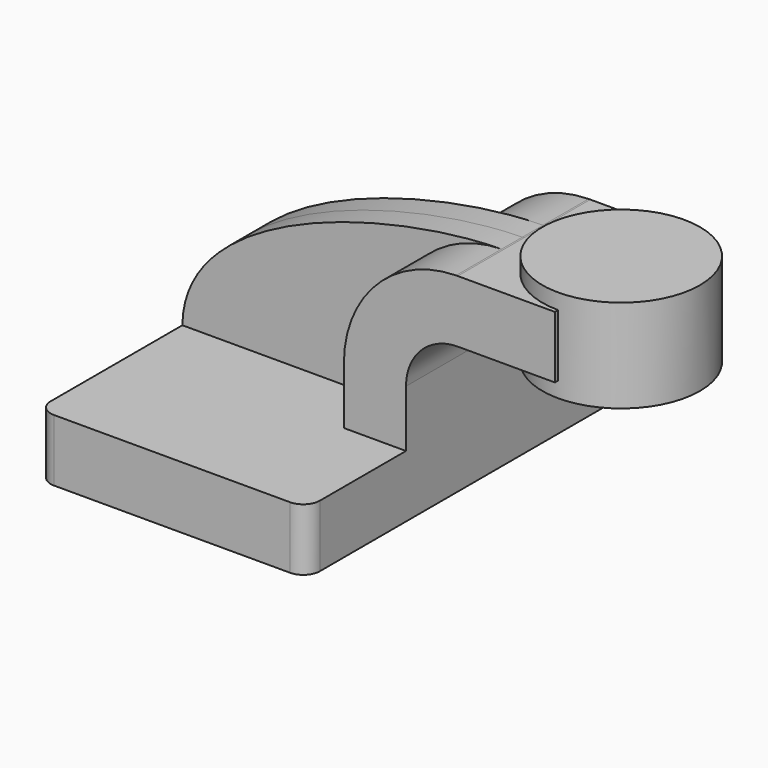
from build123d import *

# Parameters (mm, degrees)
F0_W     = 26.6334357138
F0_H     = 19.05
F1_DEPTH = 25.4
F2_DEPTH = 63.5
F3_DEPTH = 7.9375
F4_R     = 5.08


with BuildPart() as f1:
    # F0 (on Front) → F1 (new body, symmetric)
    with BuildSketch(Plane.XZ):
        with BuildLine():
            Line((22.225, 9.525), (41.275, 9.525))
            Line((41.275, 9.525), (41.275, 27.0002))
            ThreePointArc((41.275, 27.0002), (45.9246798487, 38.2255201513), (57.15, 42.8752))
            Line((57.15, 42.8752), (60.325, 42.8752))
            Line((60.325, 42.8752), (60.325, 61.9252))
            Line((60.325, 61.9252), (57.15, 61.9252))
            add(Edge.make_bspline(
                [(56.6413277741, 61.9214954738), (56.8116800634, 61.9231681109), (56.9812416063, 61.9244029276), (57.15, 61.9252)],
                knots=[110.9405929151, 110.9405929151, 110.9405929151, 110.9405929151, 111.5045361635, 111.5045361635, 111.5045361635, 111.5045361635], degree=3))
            ThreePointArc((56.6413277741, 61.9214954738), (32.2751029903, 51.515401891), (22.225, 27.0002))
            Line((22.225, 27.0002), (22.225, 9.525))
        make_face()
        with Locations((73.6417178569, 52.4002)):
            Rectangle(F0_W, F0_H)
    extrude(amount=F1_DEPTH, both=True)

    # F0 (on Front) → F2 (join, symmetric)
    with BuildSketch(Plane.XZ):
        Polygon((-41.275, 9.525), (-41.275, -9.525), (41.275, -9.525), (41.275, 9.525), (22.225, 9.525), align=None)
    extrude(amount=F2_DEPTH, both=True)

    # F0 (on Front) → F3 (join, symmetric)
    with BuildSketch(Plane.XZ):
        with BuildLine():
            add(Edge.make_bspline(
                [(-41.275, 9.525), (-40.9849167943, 44.3197871826), (23.1291188202, 61.5924493311), (56.6413277741, 61.9214954738)],
                knots=[0, 0, 0, 0, 110.9405929151, 110.9405929151, 110.9405929151, 110.9405929151], degree=3))
            Line((-41.275, 9.525), (22.225, 9.525))
            Line((22.225, 9.525), (22.225, 27.0002))
            ThreePointArc((22.225, 27.0002), (32.2751029903, 51.515401891), (56.6413277741, 61.9214954738))
        make_face()
    extrude(amount=F3_DEPTH, both=True)

    # F4
    f4_edges = [f1.edges().sort_by_distance(p)[0] for p in [
        (-41.275, 63.5, 0),
        (41.275, 63.5, 0),
        (41.275, -63.5, 0),
        (-41.275, -63.5, 0),
    ]]
    fillet(f4_edges, radius=F4_R)

    # F0 (on Front) → F5 (revolve)
    with BuildSketch(Plane.XZ):
        Polygon((86.9584357138, 66.675), (86.9584357138, 61.9252), (86.9584357138, 42.8752), (86.9584357138, 38.1), (111.125, 38.1), (111.125, 66.675), align=None)
    revolve(axis=Axis((86.9584357138, 0, 52.3875), (0, 0, 1)))


solid = f1.part
